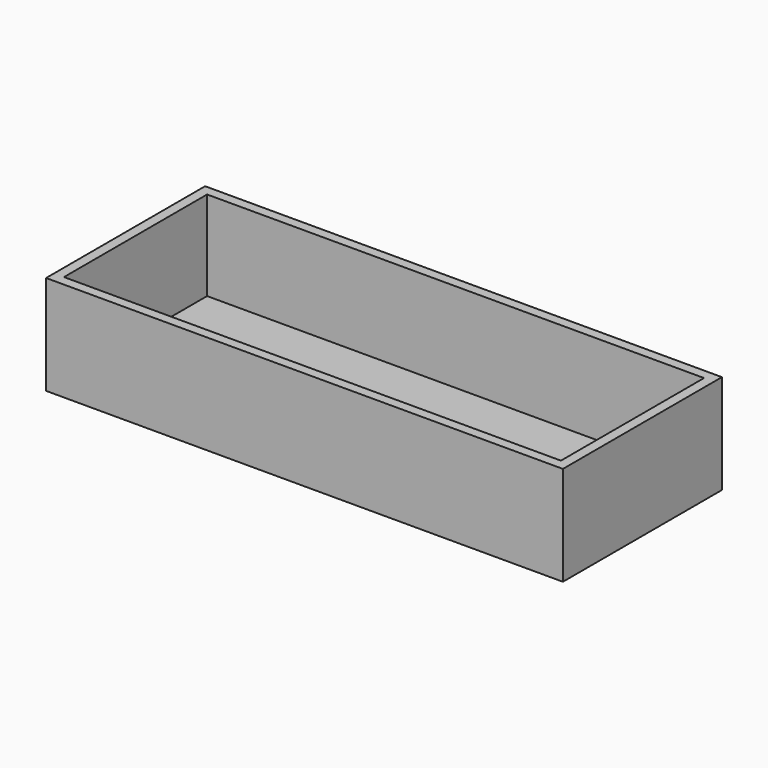
from build123d import *

# Parameters (mm, degrees)
F0_W     = 130
F0_H     = 50
F1_DEPTH = 25
F2_T     = -2.5
F3_R     = 1.75
F4_DEPTH = 1.5
F5_W     = 10
F5_H     = 2.5
F6_DEPTH = 2.5


with BuildPart() as f1:
    # F0 (on Top) → F1 (new body)
    with BuildSketch(Plane.XY):
        with Locations((65, 0)):
            Rectangle(F0_W, F0_H)
    extrude(amount=F1_DEPTH)

    # F2
    f2_openings = [f1.faces().sort_by_distance(p)[0] for p in [
        (65, 0, 25),
    ]]
    offset(amount=F2_T, openings=f2_openings)

    # F3 (on face) → F4 (join)
    with BuildSketch(Plane(origin=(0, 0, 0), x_dir=(1, 0, 0), z_dir=(0, 0, -1))):
        with Locations((7.5, 0)):
            Circle(F3_R)
    extrude(amount=F4_DEPTH)

    # F5 (on face) → F6 (cut, through all)
    with BuildSketch(Plane(origin=(0, 0, 0), x_dir=(1, 0, 0), z_dir=(0, 0, -1))):
        with Locations((55, -1.25)):
            Rectangle(F5_W, F5_H)
        with Locations((78, -1.25)):
            Rectangle(F5_W, F5_H)
    extrude(amount=-F6_DEPTH, mode=Mode.SUBTRACT)


solid = f1.part
